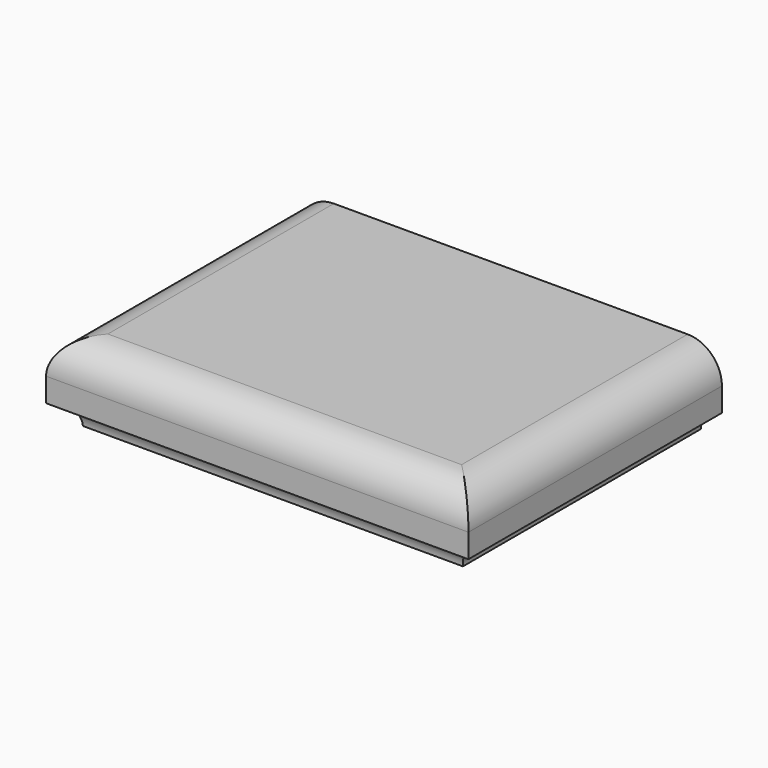
from build123d import *

# Parameters (mm, degrees)
F5_DEPTH = 152.4
F1_R     = 10.16
F2_DEPTH = 254
F3_R     = 16.51
F6_T     = -5.08


with BuildPart() as f5:
    # F0 (on Front) → F5 (new body)
    with BuildSketch(Plane.XZ):
        with BuildLine():
            Line((-193.04, 0), (-10.16, 0))
            ThreePointArc((-10.16, 0), (-7.184205, 7.184205), (0, 10.16))
            Line((0, 10.16), (0, 38.1))
            Line((0, 38.1), (-203.2, 38.1))
            Line((-203.2, 38.1), (-203.2, 10.16))
            ThreePointArc((-203.2, 10.16), (-196.015795, 7.184205), (-193.04, 0))
        make_face()
    extrude(amount=F5_DEPTH)

    # F1 (on face) → F2 (cut)
    with BuildSketch(Plane.YZ):
        with Locations((-153.180798, 0)):
            Circle(F1_R)
    extrude(amount=-F2_DEPTH, mode=Mode.SUBTRACT)

    # F3
    f3_edges = [f5.edges().sort_by_distance(p)[0] for p in [
        (-101.6, -152.4, 38.1),
        (-203.2, -76.2, 38.1),
        (0, -76.2, 38.1),
    ]]
    fillet(f3_edges, radius=F3_R)

    # F6
    f6_openings = [f5.faces().sort_by_distance(p)[0] for p in [
        (-101.6, 0, 19.129387),
    ]]
    offset(amount=F6_T, openings=f6_openings)


solid = f5.part
